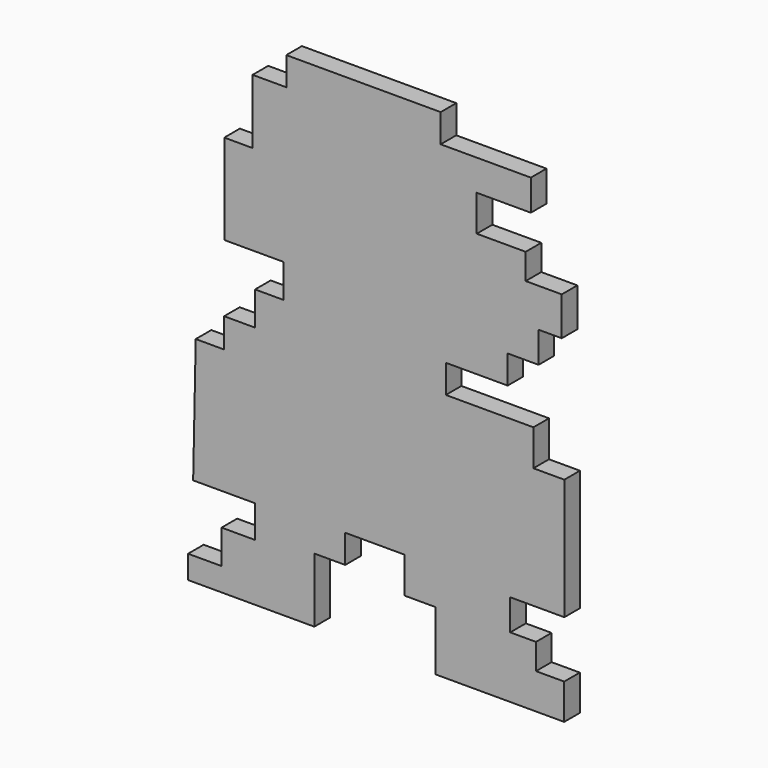
from build123d import *

# Parameters (mm, degrees)
F1_DEPTH = 2


with BuildPart() as f1:
    # F0 (on Front) → F1 (new body)
    with BuildSketch(Plane.XZ):
        Polygon((-33.388151, 57.071516), (-33.388151, 54.164634), (-36.843763, 54.164634), (-36.843763, 50.998166), (-36.843763, 47.552614), (-39.750644, 47.552614), (-39.750644, 38.303452), (-33.67262, 38.303452), (-33.67262, 34.868049), (-36.591489, 34.868049), (-36.591489, 31.416972), (-39.767012, 31.416972), (-39.767012, 28.408138), (-42.678274, 28.408138), (-42.942535, 15.558603), (-36.591489, 15.558603), (-36.591489, 12.243511), (-40.027127, 12.243511), (-40.027127, 8.767691), (-43.462526, 8.767691), (-43.462526, 6.389335), (-30.513702, 6.389335), (-30.513702, 12.995879), (-27.342562, 12.995879), (-27.342562, 15.902759), (-21.26454, 15.902759), (-21.26454, 12.203094), (-18.0934, 12.203094), (-18.0934, 6.125073), (-4.880313, 6.125073), (-4.880313, 9.76866), (-7.774971, 9.76866), (-7.774971, 12.411278), (-10.417589, 12.411278), (-10.417589, 15.582419), (-4.868091, 15.582419), (-4.868091, 28.002722), (-8.039233, 28.002722), (-8.039233, 31.702386), (-17.024132, 31.702386), (-17.024132, 34.609267), (-10.681851, 34.609267), (-10.681851, 37.516144), (-7.510708, 37.516144), (-7.510708, 40.687287), (-5.132354, 40.687287), (-5.132354, 44.651215), (-8.832018, 44.651215), (-8.832018, 47.293828), (-13.852991, 47.293828), (-13.852991, 50.993496), (-8.303495, 50.993496), (-8.303495, 54.164634), (-17.552656, 54.164634), (-17.552656, 57.071516), align=None)
    extrude(amount=F1_DEPTH)


solid = f1.part
